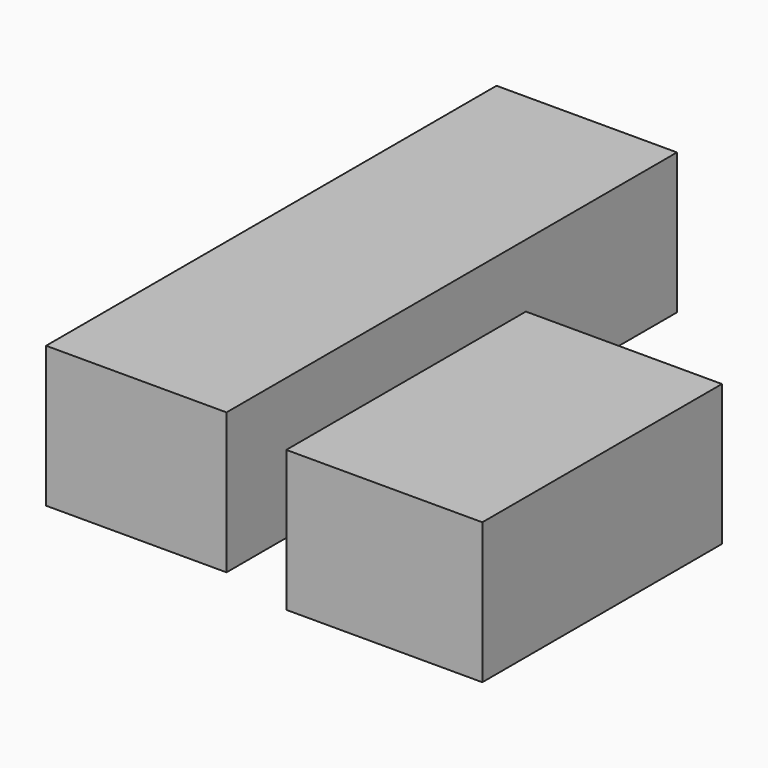
from build123d import *

# Parameters (mm, degrees)
F0_W     = 32.54269
F0_H     = 101.543706
F0_W_2   = 35.357054
F0_H_2   = 54.011726
F1_DEPTH = 25.4


with BuildPart() as f1:
    # F0 (on Top) → F1 (new body)
    with BuildSketch(Plane.XY):
        with Locations((-127.225317, 13.143906)):
            Rectangle(F0_W, F0_H)
        with Locations((-79.56505, -14.288835)):
            Rectangle(F0_W_2, F0_H_2)
    extrude(amount=F1_DEPTH)


solid = f1.part
